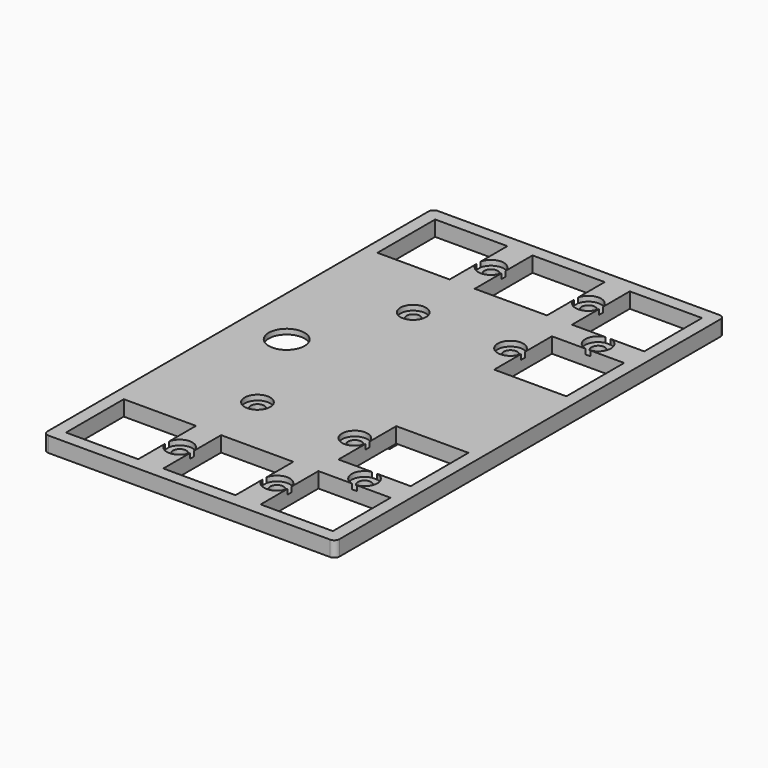
from build123d import *

# Parameters (mm, degrees)
SKETCH_W        = 57
SKETCH_H        = 95
SKETCH_R        = 3.5
SKETCH_R_2      = 1.3
SKETCH_W_2      = 14.1
SKETCH_H_2      = 14.1
PAD_DEPTH       = 3
SKETCH008_R     = 2.5
POCKET_DEPTH    = 1
SKETCH009_W     = 3
SKETCH009_H     = 10
PAD002_DEPTH    = 6
SKETCH010_W     = 13
SKETCH010_H     = 15
POCKET006_DEPTH = 2
SKETCH011_W     = 10
SKETCH011_H     = 3
PAD003_DEPTH    = 10
FILLET_R        = 1


with BuildPart() as part:
    # Sketch → Pad (new body)
    with BuildSketch(Plane.XY):
        with Locations((28.5, 47.5)):
            Rectangle(SKETCH_W, SKETCH_H)
        with Locations((9.5, 47.5)):
            Circle(SKETCH_R, mode=Mode.SUBTRACT)
        with Locations((19, 85.5)):
            Circle(SKETCH_R_2, mode=Mode.SUBTRACT)
        with Locations((38, 85.5)):
            Circle(SKETCH_R_2, mode=Mode.SUBTRACT)
        with Locations((38, 66.5)):
            Circle(SKETCH_R_2, mode=Mode.SUBTRACT)
        with Locations((19, 66.5)):
            Circle(SKETCH_R_2, mode=Mode.SUBTRACT)
        with Locations((38, 28.5)):
            Circle(SKETCH_R_2, mode=Mode.SUBTRACT)
        with Locations((19, 28.5)):
            Circle(SKETCH_R_2, mode=Mode.SUBTRACT)
        with Locations((19, 9.5)):
            Circle(SKETCH_R_2, mode=Mode.SUBTRACT)
        with Locations((38, 9.5)):
            Circle(SKETCH_R_2, mode=Mode.SUBTRACT)
        with Locations((47.5, 19)):
            Circle(SKETCH_R_2, mode=Mode.SUBTRACT)
        with Locations((47.5, 76)):
            Circle(SKETCH_R_2, mode=Mode.SUBTRACT)
        with Locations((9.5, 9.5)):
            Rectangle(SKETCH_W_2, SKETCH_H_2, mode=Mode.SUBTRACT)
        with Locations((28.5, 9.5)):
            Rectangle(SKETCH_W_2, SKETCH_H_2, mode=Mode.SUBTRACT)
        with Locations((47.5, 9.5)):
            Rectangle(SKETCH_W_2, SKETCH_H_2, mode=Mode.SUBTRACT)
        with Locations((47.5, 28.5)):
            Rectangle(SKETCH_W_2, SKETCH_H_2, mode=Mode.SUBTRACT)
        with Locations((47.5, 66.5)):
            Rectangle(SKETCH_W_2, SKETCH_H_2, mode=Mode.SUBTRACT)
        with Locations((47.5, 85.5)):
            Rectangle(SKETCH_W_2, SKETCH_H_2, mode=Mode.SUBTRACT)
        with Locations((28.5, 85.5)):
            Rectangle(SKETCH_W_2, SKETCH_H_2, mode=Mode.SUBTRACT)
        with Locations((9.5, 85.5)):
            Rectangle(SKETCH_W_2, SKETCH_H_2, mode=Mode.SUBTRACT)
    extrude(amount=PAD_DEPTH)

    # Sketch008 (on Face49 of Pad) → Pocket (cut)
    with BuildSketch(Plane.XY.offset(3)):
        with Locations((19, 28.5)):
            Circle(SKETCH008_R)
        with Locations((38, 28.5)):
            Circle(SKETCH008_R)
        with Locations((47.5, 19)):
            Circle(SKETCH008_R)
        with Locations((38, 9.5)):
            Circle(SKETCH008_R)
        with Locations((19, 9.5)):
            Circle(SKETCH008_R)
        with Locations((19, 66.5)):
            Circle(SKETCH008_R)
        with Locations((38, 85.5)):
            Circle(SKETCH008_R)
        with Locations((38, 66.5)):
            Circle(SKETCH008_R)
        with Locations((47.5, 76)):
            Circle(SKETCH008_R)
        with Locations((19, 85.5)):
            Circle(SKETCH008_R)
    extrude(amount=-POCKET_DEPTH, mode=Mode.SUBTRACT)

    # Sketch009 (on Face4 of Pocket) → Pad002 (join)
    with BuildSketch(Plane(origin=(0, 0, 0), x_dir=(1, 0, 0), z_dir=(0, 0, -1))):
        with Locations((22.1, -47.5)):
            Rectangle(SKETCH009_W, SKETCH009_H)
    extrude(amount=PAD002_DEPTH)

    # Sketch010 (on Face4 of Pad002) → Pocket006 (cut)
    with BuildSketch(Plane(origin=(0, 0, 0), x_dir=(1, 0, 0), z_dir=(0, 0, -1))):
        with Locations((9.5, -47.5)):
            Rectangle(SKETCH010_W, SKETCH010_H)
    extrude(amount=-POCKET006_DEPTH, mode=Mode.SUBTRACT)

    # Sketch011 (on Face32 of Pocket006) → Pad003 (join)
    with BuildSketch(Plane.YZ.offset(23.6)):
        with Locations((47.5, -4.5)):
            Rectangle(SKETCH011_W, SKETCH011_H)
    extrude(amount=PAD003_DEPTH)

    # Fillet
    fillet_edges = [part.edges().sort_by_distance(p)[0] for p in [
        (57, 0, 1.5),
        (0, 0, 1.5),
        (0, 95, 1.5),
        (57, 95, 1.5),
    ]]
    fillet(fillet_edges, radius=FILLET_R)


with BuildPart() as part_1:
    # Body placement: moved
    add(part.part.moved(Location((6, 6, 11))))


solid = part_1.part
